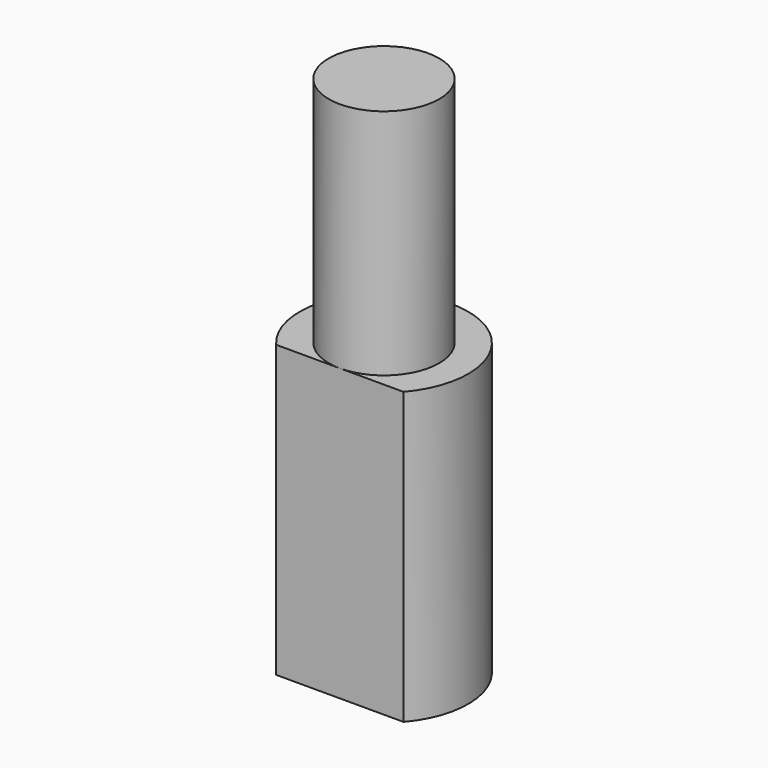
from build123d import *

# Parameters (mm, degrees)
F0_R     = 1.9
F1_DEPTH = 8
F2_R     = 2.9
F3_DEPTH = 10
F5_W     = 18.789151
F5_H     = 32.01971
F6_DEPTH = 25


with BuildPart() as f1:
    # F0 (on Top) → F1 (new body)
    with BuildSketch(Plane.XY):
        Circle(F0_R)
    extrude(amount=F1_DEPTH)

    # F2 (on face) → F3 (join)
    with BuildSketch(Plane(origin=(0, 0, 0), x_dir=(1, 0, 0), z_dir=(0, 0, -1))):
        Circle(F2_R)
    extrude(amount=F3_DEPTH)

    # F5 (on offset) → F6 (cut)
    with BuildSketch(Plane.XZ.offset(1.9)):
        with Locations((0.467039, -0.190436)):
            Rectangle(F5_W, F5_H)
    extrude(amount=F6_DEPTH, mode=Mode.SUBTRACT)


solid = f1.part
